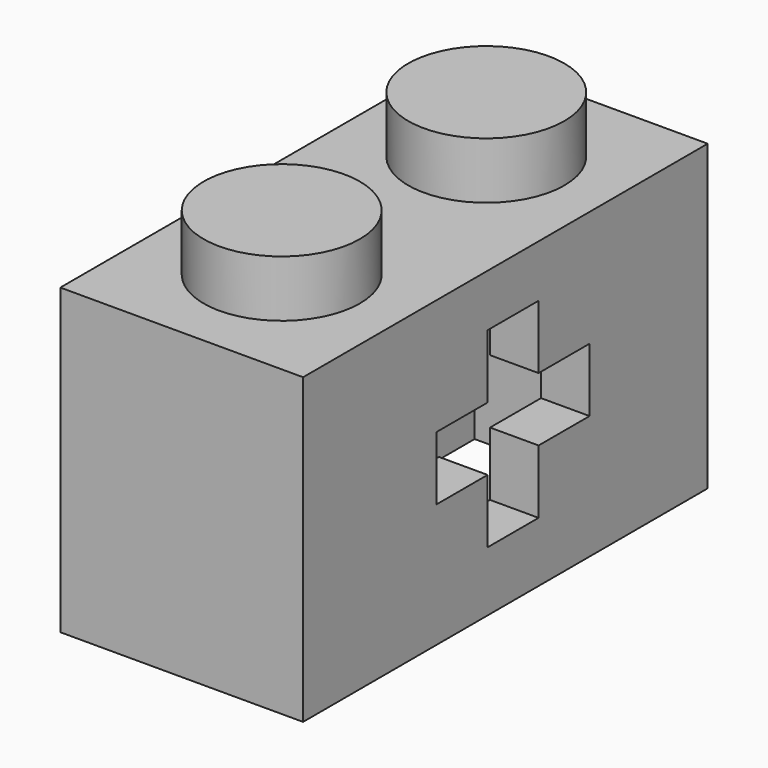
from build123d import *

# Parameters (mm, degrees)
F0_W     = 7.62
F0_H     = 15.875
F1_DEPTH = 4.7625
F2_R     = 2.4511
F3_DEPTH = 1.778
F4_W     = 4.572
F4_H     = 12.827
F5_DEPTH = 8.382
F7_DEPTH = 7.77


with BuildPart() as f1:
    # F0 (on Top) → F1 (new body, symmetric)
    with BuildSketch(Plane.XY):
        Rectangle(F0_W, F0_H)
    extrude(amount=F1_DEPTH, both=True)

    # F2 (on face) → F3 (join)
    with BuildSketch(Plane.XY.offset(4.7625)):
        with Locations((0, 4.0132)):
            Circle(F2_R)
        with Locations((0, -4.0132)):
            Circle(F2_R)
    extrude(amount=F3_DEPTH)

    # F4 (on face) → F5 (cut)
    with BuildSketch(Plane(origin=(0, 0, -4.7625), x_dir=(1, 0, 0), z_dir=(0, 0, -1))):
        Rectangle(F4_W, F4_H)
    extrude(amount=-F5_DEPTH, mode=Mode.SUBTRACT)

    # F6 (on face) → F7 (cut)
    with BuildSketch(Plane.YZ.offset(3.81)):
        Polygon((1.302941, 3.120179), (-0.697059, 3.120179), (-0.697059, 1.120179), (-2.697059, 1.120179), (-2.697059, -0.879821), (-0.697059, -0.879821), (-0.697059, -2.879821), (1.302941, -2.879821), (1.302941, -0.879821), (3.302941, -0.879821), (3.302941, 1.120179), (1.302941, 1.120179), align=None)
    extrude(amount=-F7_DEPTH, mode=Mode.SUBTRACT)


solid = f1.part
